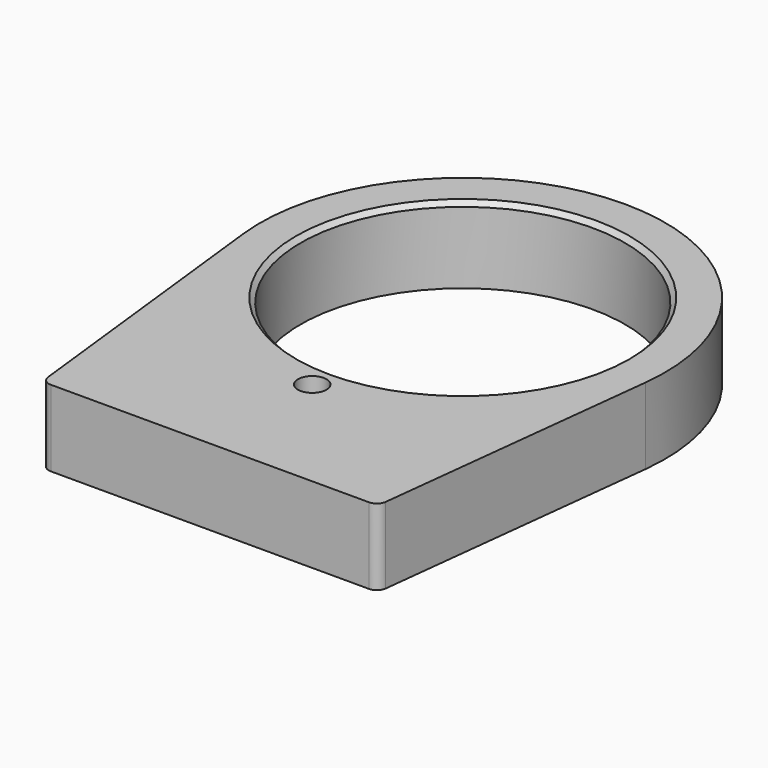
from build123d import *

# Parameters (mm, degrees)
F0_R     = 1.18745
F0_R_2   = 13.5001
F1_DEPTH = 6.35
F2_SIZE  = 0.381


with BuildPart() as f1:
    # F0 (on Top) → F1 (new body)
    with BuildSketch(Plane.XY):
        with BuildLine():
            Line((14.058306, -25.599736), (16.751409, -1.903843))
            ThreePointArc((16.751409, -1.903843), (0, 16.85925), (-16.751409, -1.903843))
            Line((-16.751409, -1.903843), (-14.058306, -25.599736))
            ThreePointArc((-14.058306, -25.599736), (-13.792018, -26.11427), (-13.250705, -26.32075))
            Line((-13.250705, -26.32075), (0, -26.32075))
            Line((0, -26.32075), (13.250705, -26.32075))
            ThreePointArc((13.250705, -26.32075), (13.792018, -26.11427), (14.058306, -25.599736))
        make_face()
        with Locations((0, -15.6718)):
            Circle(F0_R, mode=Mode.SUBTRACT)
        Circle(F0_R_2, mode=Mode.SUBTRACT)
    extrude(amount=F1_DEPTH)

    # F2
    f2_edges = [f1.edges().sort_by_distance(p)[0] for p in [
        (-13.5001, 0, 6.35),
    ]]
    chamfer(f2_edges, length=F2_SIZE)


solid = f1.part
